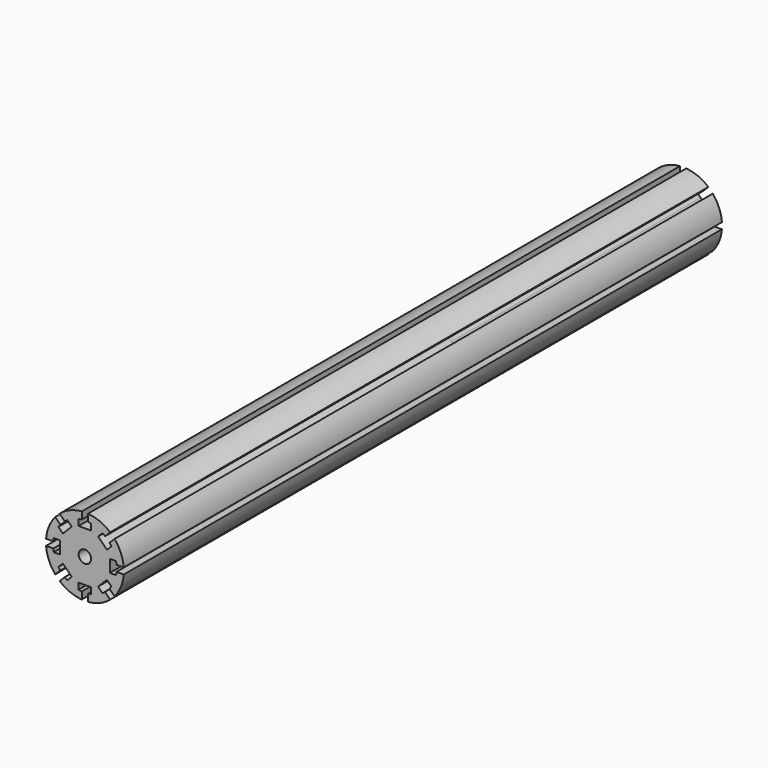
from build123d import *

# Parameters (mm, degrees)
F0_R      = 2
F1_DEPTH  = 100
F1_FACE_R = 2
F2_DEPTH  = 140


with BuildPart() as f1:
    # F0 (on Front) → F1 (new body)
    with BuildSketch(Plane.XZ):
        with BuildLine():
            Line((8, -2), (8, 0))
            Line((8, 0), (8, 2))
            Line((8, 2), (10, 2))
            ThreePointArc((10, 2), (10.086846, 1.501846), (10.148892, 1))
            Line((10.148892, 1), (12.459936, 1))
            ThreePointArc((12.459936, 1), (11.548494, 4.783543), (9.517612, 8.103398))
            Line((9.517612, 8.103398), (7.883457, 6.469243))
            ThreePointArc((7.883457, 6.469243), (8.194443, 6.070511), (8.485281, 5.656854))
            Line((8.485281, 5.656854), (7.071068, 4.242641))
            Line((7.071068, 4.242641), (5.656854, 5.656854))
            Line((5.656854, 5.656854), (4.242641, 7.071068))
            Line((4.242641, 7.071068), (5.656854, 8.485281))
            ThreePointArc((5.656854, 8.485281), (6.070511, 8.194443), (6.469243, 7.883457))
            Line((6.469243, 7.883457), (8.103398, 9.517612))
            ThreePointArc((8.103398, 9.517612), (4.783543, 11.548494), (1, 12.459936))
            Line((1, 12.459936), (1, 10.148892))
            ThreePointArc((1, 10.148892), (1.501846, 10.086846), (2, 10))
            Line((2, 10), (2, 8))
            Line((2, 8), (0, 8))
            Line((0, 8), (-2, 8))
            Line((-2, 8), (-2, 10))
            ThreePointArc((-2, 10), (-1.501846, 10.086846), (-1, 10.148892))
            Line((-1, 10.148892), (-1, 12.459936))
            ThreePointArc((-1, 12.459936), (-4.783543, 11.548494), (-8.103398, 9.517612))
            Line((-8.103398, 9.517612), (-6.469243, 7.883457))
            ThreePointArc((-6.469243, 7.883457), (-6.070511, 8.194443), (-5.656854, 8.485281))
            Line((-5.656854, 8.485281), (-4.242641, 7.071068))
            Line((-4.242641, 7.071068), (-5.656854, 5.656854))
            Line((-5.656854, 5.656854), (-7.071068, 4.242641))
            Line((-7.071068, 4.242641), (-8.485281, 5.656854))
            ThreePointArc((-8.485281, 5.656854), (-8.194443, 6.070511), (-7.883457, 6.469243))
            Line((-7.883457, 6.469243), (-9.517612, 8.103398))
            ThreePointArc((-9.517612, 8.103398), (-11.548494, 4.783543), (-12.459936, 1))
            Line((-12.459936, 1), (-10.148892, 1))
            ThreePointArc((-10.148892, 1), (-10.086846, 1.501846), (-10, 2))
            Line((-10, 2), (-8, 2))
            Line((-8, 2), (-8, 0))
            Line((-8, 0), (-8, -2))
            Line((-8, -2), (-10, -2))
            ThreePointArc((-10, -2), (-10.086846, -1.501846), (-10.148892, -1))
            Line((-10.148892, -1), (-12.459936, -1))
            ThreePointArc((-12.459936, -1), (-11.548494, -4.783543), (-9.517612, -8.103398))
            Line((-9.517612, -8.103398), (-7.883457, -6.469243))
            ThreePointArc((-7.883457, -6.469243), (-8.194443, -6.070511), (-8.485281, -5.656854))
            Line((-8.485281, -5.656854), (-7.071068, -4.242641))
            Line((-7.071068, -4.242641), (-5.656854, -5.656854))
            Line((-5.656854, -5.656854), (-4.242641, -7.071068))
            Line((-4.242641, -7.071068), (-5.656854, -8.485281))
            ThreePointArc((-5.656854, -8.485281), (-6.070511, -8.194443), (-6.469243, -7.883457))
            Line((-6.469243, -7.883457), (-8.103398, -9.517612))
            ThreePointArc((-8.103398, -9.517612), (-4.783543, -11.548494), (-1, -12.459936))
            Line((-1, -12.459936), (-1, -10.148892))
            ThreePointArc((-1, -10.148892), (-1.501846, -10.086846), (-2, -10))
            Line((-2, -10), (-2, -8))
            Line((-2, -8), (0, -8))
            Line((0, -8), (2, -8))
            Line((2, -8), (2, -10))
            ThreePointArc((2, -10), (1.501846, -10.086846), (1, -10.148892))
            Line((1, -10.148892), (1, -12.459936))
            ThreePointArc((1, -12.459936), (4.783543, -11.548494), (8.103398, -9.517612))
            Line((8.103398, -9.517612), (6.469243, -7.883457))
            ThreePointArc((6.469243, -7.883457), (6.070511, -8.194443), (5.656854, -8.485281))
            Line((5.656854, -8.485281), (4.242641, -7.071068))
            Line((4.242641, -7.071068), (5.656854, -5.656854))
            Line((5.656854, -5.656854), (7.071068, -4.242641))
            Line((7.071068, -4.242641), (8.485281, -5.656854))
            ThreePointArc((8.485281, -5.656854), (8.194443, -6.070511), (7.883457, -6.469243))
            Line((7.883457, -6.469243), (9.517612, -8.103398))
            ThreePointArc((9.517612, -8.103398), (11.548494, -4.783543), (12.459936, -1))
            Line((12.459936, -1), (10.148892, -1))
            ThreePointArc((10.148892, -1), (10.086846, -1.501846), (10, -2))
            Line((10, -2), (8, -2))
        make_face()
        Circle(F0_R, mode=Mode.SUBTRACT)
    extrude(amount=F1_DEPTH)

    # F1_face (on face) → F2 (join)
    with BuildSketch(Plane.XZ.offset(100)):
        with BuildLine():
            ThreePointArc((6.469243, -7.883457), (6.070511, -8.194443), (5.656854, -8.485281))
            Line((5.656854, -8.485281), (4.242641, -7.071068))
            Line((4.242641, -7.071068), (7.071068, -4.242641))
            Line((7.071068, -4.242641), (8.485281, -5.656854))
            ThreePointArc((8.485281, -5.656854), (8.194443, -6.070511), (7.883457, -6.469243))
            Line((7.883457, -6.469243), (9.517612, -8.103398))
            ThreePointArc((9.517612, -8.103398), (11.548494, -4.783543), (12.459936, -1))
            Line((12.459936, -1), (10.148892, -1))
            ThreePointArc((10.148892, -1), (10.086846, -1.501846), (10, -2))
            Line((10, -2), (8, -2))
            Line((8, -2), (8, 2))
            Line((8, 2), (10, 2))
            ThreePointArc((10, 2), (10.086846, 1.501846), (10.148892, 1))
            Line((10.148892, 1), (12.459936, 1))
            ThreePointArc((12.459936, 1), (11.548494, 4.783543), (9.517612, 8.103398))
            Line((9.517612, 8.103398), (7.883457, 6.469243))
            ThreePointArc((7.883457, 6.469243), (8.194443, 6.070511), (8.485281, 5.656854))
            Line((8.485281, 5.656854), (7.071068, 4.242641))
            Line((7.071068, 4.242641), (4.242641, 7.071068))
            Line((4.242641, 7.071068), (5.656854, 8.485281))
            ThreePointArc((5.656854, 8.485281), (6.070511, 8.194443), (6.469243, 7.883457))
            Line((6.469243, 7.883457), (8.103398, 9.517612))
            ThreePointArc((8.103398, 9.517612), (4.783543, 11.548494), (1, 12.459936))
            Line((1, 12.459936), (1, 10.148892))
            ThreePointArc((1, 10.148892), (1.501846, 10.086846), (2, 10))
            Line((2, 10), (2, 8))
            Line((2, 8), (-2, 8))
            Line((-2, 8), (-2, 10))
            ThreePointArc((-2, 10), (-1.501846, 10.086846), (-1, 10.148892))
            Line((-1, 10.148892), (-1, 12.459936))
            ThreePointArc((-1, 12.459936), (-4.783543, 11.548494), (-8.103398, 9.517612))
            Line((-8.103398, 9.517612), (-6.469243, 7.883457))
            ThreePointArc((-6.469243, 7.883457), (-6.070511, 8.194443), (-5.656854, 8.485281))
            Line((-5.656854, 8.485281), (-4.242641, 7.071068))
            Line((-4.242641, 7.071068), (-7.071068, 4.242641))
            Line((-7.071068, 4.242641), (-8.485281, 5.656854))
            ThreePointArc((-8.485281, 5.656854), (-8.194443, 6.070511), (-7.883457, 6.469243))
            Line((-7.883457, 6.469243), (-9.517612, 8.103398))
            ThreePointArc((-9.517612, 8.103398), (-11.548494, 4.783543), (-12.459936, 1))
            Line((-12.459936, 1), (-10.148892, 1))
            ThreePointArc((-10.148892, 1), (-10.086846, 1.501846), (-10, 2))
            Line((-10, 2), (-8, 2))
            Line((-8, 2), (-8, -2))
            Line((-8, -2), (-10, -2))
            ThreePointArc((-10, -2), (-10.086846, -1.501846), (-10.148892, -1))
            Line((-10.148892, -1), (-12.459936, -1))
            ThreePointArc((-12.459936, -1), (-11.548494, -4.783543), (-9.517612, -8.103398))
            Line((-9.517612, -8.103398), (-7.883457, -6.469243))
            ThreePointArc((-7.883457, -6.469243), (-8.194443, -6.070511), (-8.485281, -5.656854))
            Line((-8.485281, -5.656854), (-7.071068, -4.242641))
            Line((-7.071068, -4.242641), (-4.242641, -7.071068))
            Line((-4.242641, -7.071068), (-5.656854, -8.485281))
            ThreePointArc((-5.656854, -8.485281), (-6.070511, -8.194443), (-6.469243, -7.883457))
            Line((-6.469243, -7.883457), (-8.103398, -9.517612))
            ThreePointArc((-8.103398, -9.517612), (-4.783543, -11.548494), (-1, -12.459936))
            Line((-1, -12.459936), (-1, -10.148892))
            ThreePointArc((-1, -10.148892), (-1.501846, -10.086846), (-2, -10))
            Line((-2, -10), (-2, -8))
            Line((-2, -8), (2, -8))
            Line((2, -8), (2, -10))
            ThreePointArc((2, -10), (1.501846, -10.086846), (1, -10.148892))
            Line((1, -10.148892), (1, -12.459936))
            ThreePointArc((1, -12.459936), (4.783543, -11.548494), (8.103398, -9.517612))
            Line((8.103398, -9.517612), (6.469243, -7.883457))
        make_face()
        Circle(F1_FACE_R, mode=Mode.SUBTRACT)
    extrude(amount=F2_DEPTH)


solid = f1.part
